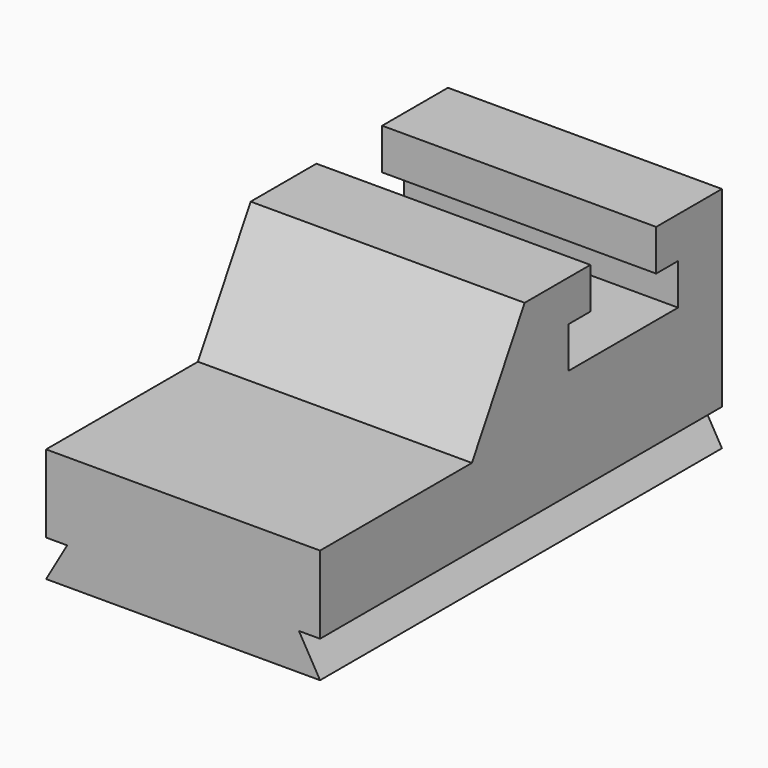
from build123d import *

# Parameters (mm, degrees)
F1_DEPTH = 1524
F3_DEPTH = 2794.001
F5_DEPTH = 2794.001


with BuildPart() as f1:
    # F0 (on Right) → F1 (new body)
    with BuildSketch(Plane.YZ):
        Polygon((-102.821849, 577.722347), (-102.821849, -57.277653), (2691.178151, -57.277653), (2691.178151, 1212.722347), (2233.978151, 1212.722347), (2233.978151, 984.122347), (2386.378151, 984.122347), (2386.378151, 755.522347), (1624.378151, 755.522347), (1624.378151, 984.122347), (1776.778151, 984.122347), (1776.778151, 1212.722347), (1319.578151, 1212.722347), (952.96073, 577.722347), align=None)
    extrude(amount=-F1_DEPTH)

    # F2 (on face) → F3 (cut, through all)
    with BuildSketch(Plane.XZ.offset(102.821849)):
        Polygon((0, -57.277653), (0, 145.922347), (-117.317575, 145.922347), align=None)
    extrude(amount=-F3_DEPTH, mode=Mode.SUBTRACT)

    # F4 (on face) → F5 (cut, through all)
    with BuildSketch(Plane.XZ.offset(102.821849)):
        Polygon((-1524, 145.922347), (-1524, -57.277653), (-1406.682425, 145.922347), align=None)
    extrude(amount=-F5_DEPTH, mode=Mode.SUBTRACT)


solid = f1.part
